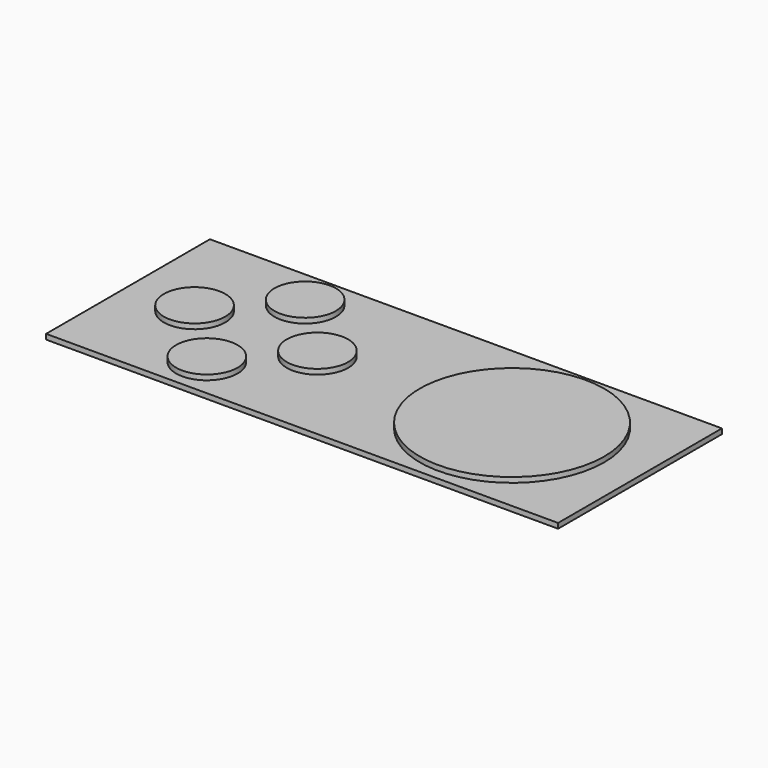
from build123d import *

# Parameters (mm, degrees)
F0_W     = 100
F0_H     = 40
F1_DEPTH = 1
F2_R     = 6
F2_R_2   = 18
F3_DEPTH = 1


with BuildPart() as f1:
    # F0 (on Top) → F1 (new body)
    with BuildSketch(Plane.XY):
        with Locations((50, 20)):
            Rectangle(F0_W, F0_H)
    extrude(amount=F1_DEPTH)

    # F2 (on face) → F3 (join)
    with BuildSketch(Plane.XY.offset(1)):
        with Locations((13, 20)):
            Circle(F2_R)
        with Locations((25, 32)):
            Circle(F2_R)
        with Locations((37, 20)):
            Circle(F2_R)
        with Locations((75, 20)):
            Circle(F2_R_2)
        with Locations((25, 8)):
            Circle(F2_R)
    extrude(amount=F3_DEPTH)


solid = f1.part
